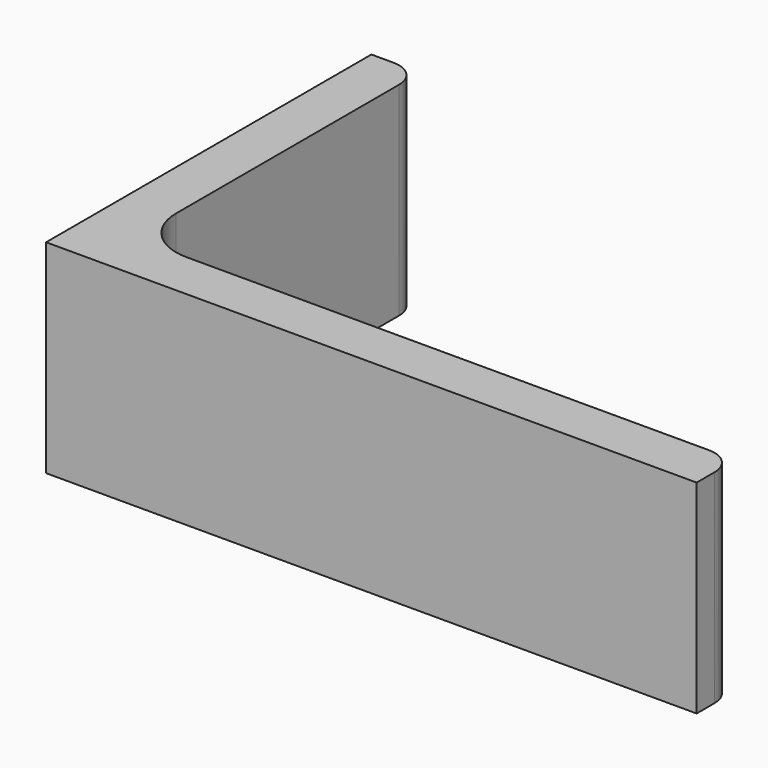
from build123d import *

# Parameters (mm, degrees)
EXTRUDE_DEPTH = 50


with BuildPart() as part:
    # Sketch → Extrude (new body)
    with BuildSketch(Plane.XY):
        with BuildLine():
            Line((0, 0), (160, 0))
            Line((160, 0), (160, 5.5))
            ThreePointArc((160, 5.5), (158.096194, 10.096194), (153.5, 12))
            Line((153.5, 12), (25, 12))
            ThreePointArc((12, 25), (15.807612, 15.807612), (25, 12))
            Line((12, 93.5), (12, 25))
            ThreePointArc((12, 93.5), (10.096194, 98.096194), (5.5, 100))
            Line((0, 100), (5.5, 100))
            Line((0, 0), (0, 100))
        make_face()
    extrude(amount=EXTRUDE_DEPTH)


solid = part.part
